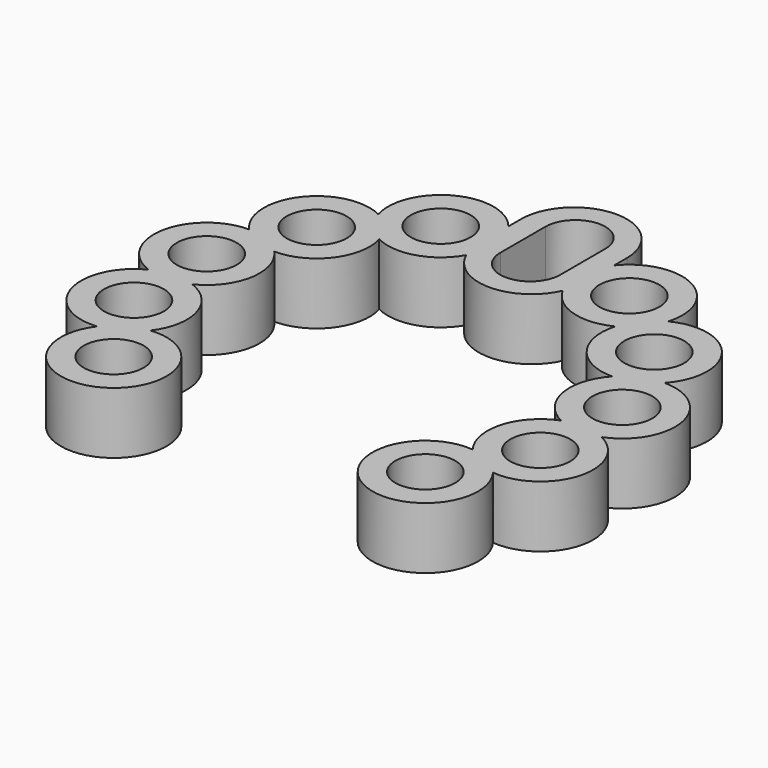
from build123d import *

# Parameters (mm, degrees)
SKETCH_R           = 3
SKETCH_R_2         = 1.7
PAD_DEPTH          = 3.5
POLARPATTERN_COUNT = 11
POLARPATTERN_ANGLE = 265
PAD001_DEPTH       = 3.5
POCKET_DEPTH       = 0.001
POCKET_DEPTH_BACK  = -3.501


with BuildPart() as part:
    # Sketch → Pad (new body)
    with BuildSketch(Plane.XY):
        with Locations((-8.847328, -8.107082)):
            Circle(SKETCH_R)
        with Locations((-8.847328, -8.107082)):
            Circle(SKETCH_R_2, mode=Mode.SUBTRACT)
    pad = extrude(amount=PAD_DEPTH)

    # PolarPattern: Pad ×11 about axis
    polarpattern_axis = Axis((0, 0, 0), (0, 0, -1))
    for i in range(1, POLARPATTERN_COUNT):
        add(pad.rotate(polarpattern_axis, i * POLARPATTERN_ANGLE / (POLARPATTERN_COUNT - 1)))

    # Sketch001 → Pad001 (join)
    with BuildSketch(Plane.XY):
        with BuildLine():
            ThreePointArc((3, 13.5), (0, 16.5), (-3, 13.5))
            Line((-3, 13.5), (-3, 10.5))
            ThreePointArc((-3, 10.5), (0, 7.5), (3, 10.5))
            Line((3, 13.5), (3, 10.5))
        make_face()
    extrude(amount=PAD001_DEPTH)

    # Sketch002 → Pocket (cut, two sides)
    with BuildSketch(Plane.XY) as pocket_sk:
        with BuildLine():
            ThreePointArc((1.7, 13.6), (0, 15.3), (-1.7, 13.6))
            Line((-1.7, 13.6), (-1.7, 10.4))
            ThreePointArc((-1.7, 10.4), (0, 8.7), (1.7, 10.4))
            Line((1.7, 13.6), (1.7, 10.4))
        make_face()
    extrude(amount=-POCKET_DEPTH, mode=Mode.SUBTRACT)
    extrude(pocket_sk.sketch, amount=-POCKET_DEPTH_BACK, mode=Mode.SUBTRACT)


solid = part.part
